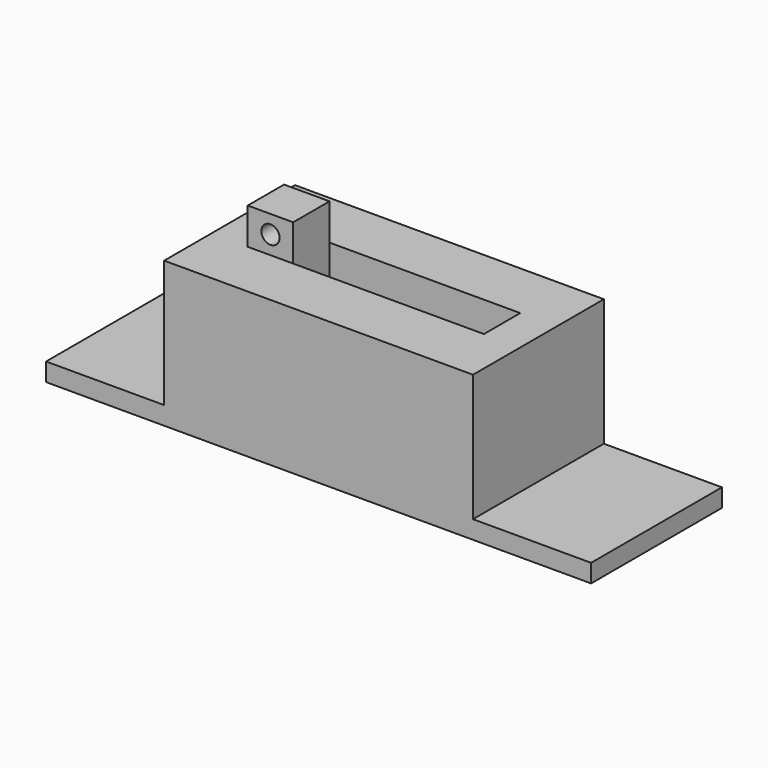
from build123d import *

# Parameters (mm, degrees)
F1_DEPTH = 4.5
F2_W     = 13
F2_H     = 2.5
F3_DEPTH = 2
F4_W     = 2.5
F4_H     = 2.5
F5_DEPTH = 4
F6_R     = 0.5
F7_DEPTH = 5.751


with BuildPart() as f1:
    # F0 (on Front) → F1 (new body, symmetric)
    with BuildSketch(Plane.XZ):
        Polygon((9.296087, 3.098171), (-7.703913, 3.098171), (-7.703913, -3.901829), (-14.203913, -3.901829), (-14.203913, -4.901829), (15.796087, -4.901829), (15.796087, -3.901829), (9.296087, -3.901829), align=None)
    extrude(amount=F1_DEPTH, both=True)

    # F2 (on face) → F3 (cut)
    with BuildSketch(Plane.XY.offset(3.098171)):
        with Locations((0.796087, 0)):
            Rectangle(F2_W, F2_H)
    extrude(amount=-F3_DEPTH, mode=Mode.SUBTRACT)


with BuildPart() as f5:
    # F4 (on face) → F5 (new body)
    with BuildSketch(Plane.XY.offset(1.098171)):
        with Locations((-4.453913, 0)):
            Rectangle(F4_W, F4_H)
    extrude(amount=F5_DEPTH)

    # F6 (on face) → F7 (cut, through all)
    with BuildSketch(Plane.XZ.offset(1.25)):
        with Locations((-4.453913, 4.098171)):
            Circle(F6_R)
    extrude(amount=-F7_DEPTH, mode=Mode.SUBTRACT)


solid = Compound([f1.part, f5.part])
